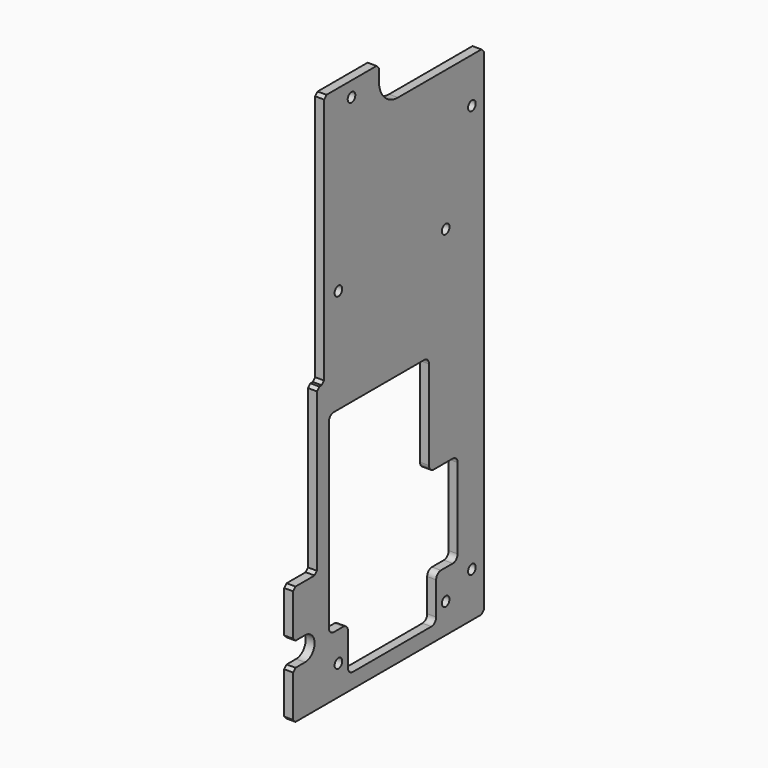
from build123d import *

# Parameters (mm, degrees)
SKETCH_R        = 1.6
PAD_DEPTH       = 3
CHAMFER_SIZE    = 1
POCKET014_DEPTH = 3.001
CHAMFER059_SIZE = 1
SKETCH159_R     = 1.6
POCKET015_DEPTH = 43.001
SKETCH188_W     = 37.119205
SKETCH188_H     = 78.955215
SKETCH188_W_2   = 7
SKETCH188_H_2   = 30
PAD099_DEPTH    = 3
SKETCH189_R     = 1.6
POCKET032_DEPTH = 3.001
SKETCH190_W     = 3
SKETCH190_H     = 55
PAD100_DEPTH    = 3
CHAMFER065_SIZE = 1
FILLET066_R     = 2


with BuildPart() as part:
    # Sketch → Pad (new body)
    with BuildSketch(Plane.YZ.offset(40)):
        with BuildLine():
            Line((8, 320), (31, 320))
            Line((31, 320), (31, 315))
            ThreePointArc((31, 315), (33.343146, 309.343146), (39, 307))
            Line((75, 307), (39, 307))
            Line((75, 140), (75, 307))
            Line((-5, 140), (75, 140))
            Line((-5, 156), (-5, 140))
            Line((-5, 156), (0, 156))
            ThreePointArc((0, 156), (4, 160), (0, 164))
            Line((0, 164), (-5, 164))
            Line((-5, 180), (-5, 164))
            Line((8, 180), (-5, 180))
            Line((8, 320), (8, 180))
        make_face()
        with Locations((19.5, 315)):
            Circle(SKETCH_R, mode=Mode.SUBTRACT)
        with Locations((70, 292)):
            Circle(SKETCH_R, mode=Mode.SUBTRACT)
        with Locations((70, 155)):
            Circle(SKETCH_R, mode=Mode.SUBTRACT)
    extrude(amount=PAD_DEPTH)

    # Chamfer
    chamfer_edges = [part.edges().sort_by_distance(p)[0] for p in [
        (41.5, -5, 180),
        (41.5, 8, 180),
        (41.5, -5, 164),
        (41.5, -5, 156),
        (41.5, -5, 140),
        (41.5, 75, 140),
        (41.5, 75, 307),
        (41.5, 8, 320),
        (41.5, 31, 320),
    ]]
    chamfer(chamfer_edges, length=CHAMFER_SIZE)

    # Sketch158 (on Face5 of Chamfer) → Pocket014 (cut, through all)
    with BuildSketch(Plane.YZ.offset(43)):
        with BuildLine():
            ThreePointArc((54, 140), (56.5, 137.5), (59, 140))
            Line((59, 140), (59, 160))
            ThreePointArc((59, 160), (56.5, 162.5), (54, 160))
            Line((54, 160), (54, 140))
        make_face()
    extrude(amount=-POCKET014_DEPTH, mode=Mode.SUBTRACT)

    # Chamfer059
    chamfer059_edges = [part.edges().sort_by_distance(p)[0] for p in [
        (41.5, 54, 140),
        (41.5, 59, 140),
    ]]
    chamfer(chamfer059_edges, length=CHAMFER059_SIZE)

    # Sketch159 → Pocket015 (cut, through all)
    with BuildSketch(Plane.YZ):
        with Locations((18, 260)):
            Circle(SKETCH159_R)
        with Locations((35.78, 260)):
            Circle(SKETCH159_R)
        with Locations((18, 204.76)):
            Circle(SKETCH159_R)
        with Locations((35.78, 204.76)):
            Circle(SKETCH159_R)
    extrude(amount=POCKET015_DEPTH, mode=Mode.SUBTRACT)

    # Sketch188 (on Face37 of Clone004) → Pad099 (new body)
    with BuildSketch(Plane.YZ.offset(43)):
        with Locations((30.900274, 230.820335)):
            Rectangle(SKETCH188_W, SKETCH188_H)
        with Locations((56.5, 155)):
            Rectangle(SKETCH188_W_2, SKETCH188_H_2)
    extrude(amount=-PAD099_DEPTH)

    # Sketch189 (on Face27 of Pad099) → Pocket032 (cut, through all)
    with BuildSketch(Plane.YZ.offset(43)):
        with Locations((14, 260)):
            Circle(SKETCH189_R)
        with Locations((59, 260)):
            Circle(SKETCH189_R)
        with Locations((59, 150)):
            Circle(SKETCH189_R)
        with Locations((14, 150)):
            Circle(SKETCH189_R)
        Polygon((10, 225), (52, 225), (52, 191), (64, 191), (64, 160), (55, 160), (55, 145), (18, 145), (18, 160), (10, 160), align=None)
    extrude(amount=-POCKET032_DEPTH, mode=Mode.SUBTRACT)

    # Sketch190 (on Face5 of Pocket032) → Pad100 (join)
    with BuildSketch(Plane.YZ.offset(43)):
        with Locations((6.5, 207.5)):
            Rectangle(SKETCH190_W, SKETCH190_H)
    extrude(amount=-PAD100_DEPTH)

    # Chamfer065
    chamfer065_edges = [part.edges().sort_by_distance(p)[0] for p in [
        (41.5, 5, 180),
        (41.5, 5, 235),
        (41.5, 8, 235),
    ]]
    chamfer(chamfer065_edges, length=CHAMFER065_SIZE)

    # Fillet066
    fillet066_edges = [part.edges().sort_by_distance(p)[0] for p in [
        (41.5, 18, 160),
        (41.5, 55, 160),
        (41.5, 52, 191),
        (41.5, 64, 160),
        (41.5, 64, 191),
        (41.5, 52, 225),
        (41.5, 10, 225),
        (41.5, 10, 160),
        (41.5, 55, 145),
        (41.5, 18, 145),
    ]]
    fillet(fillet066_edges, radius=FILLET066_R)


solid = part.part
